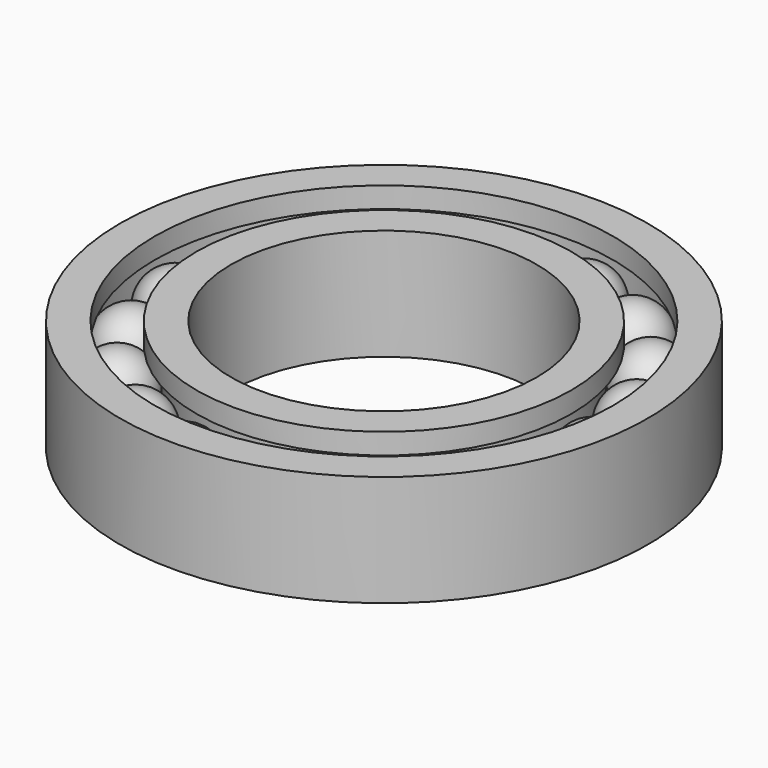
from build123d import *

# Parameters (mm, degrees)
F3_COUNT = 18


with BuildPart() as f1:
    # F0 (on Front) → F1 (revolve)
    with BuildSketch(Plane.XZ):
        with BuildLine():
            Line((-25, 0), (-35, 0))
            ThreePointArc((-35, 0), (-30, -5), (-25, 0))
        make_face()
    revolve(axis=Axis((-30, 0, 0), (1, 0, 0)))


with BuildPart() as f3_1:
    # F3: instance of F1
    add(f1.part.rotate(Axis((0, 0, 0), (0, 0, 1)), 1 * 360 / F3_COUNT))


with BuildPart() as f3_2:
    # F3: instance of F1
    add(f1.part.rotate(Axis((0, 0, 0), (0, 0, 1)), 2 * 360 / F3_COUNT))


with BuildPart() as f3_3:
    # F3: instance of F1
    add(f1.part.rotate(Axis((0, 0, 0), (0, 0, 1)), 3 * 360 / F3_COUNT))


with BuildPart() as f3_4:
    # F3: instance of F1
    add(f1.part.rotate(Axis((0, 0, 0), (0, 0, 1)), 4 * 360 / F3_COUNT))


with BuildPart() as f3_5:
    # F3: instance of F1
    add(f1.part.rotate(Axis((0, 0, 0), (0, 0, 1)), 5 * 360 / F3_COUNT))


with BuildPart() as f3_6:
    # F3: instance of F1
    add(f1.part.rotate(Axis((0, 0, 0), (0, 0, 1)), 6 * 360 / F3_COUNT))


with BuildPart() as f3_7:
    # F3: instance of F1
    add(f1.part.rotate(Axis((0, 0, 0), (0, 0, 1)), 7 * 360 / F3_COUNT))


with BuildPart() as f3_8:
    # F3: instance of F1
    add(f1.part.rotate(Axis((0, 0, 0), (0, 0, 1)), 8 * 360 / F3_COUNT))


with BuildPart() as f3_9:
    # F3: instance of F1
    add(f1.part.rotate(Axis((0, 0, 0), (0, 0, 1)), 9 * 360 / F3_COUNT))


with BuildPart() as f3_10:
    # F3: instance of F1
    add(f1.part.rotate(Axis((0, 0, 0), (0, 0, 1)), 10 * 360 / F3_COUNT))


with BuildPart() as f3_11:
    # F3: instance of F1
    add(f1.part.rotate(Axis((0, 0, 0), (0, 0, 1)), 11 * 360 / F3_COUNT))


with BuildPart() as f3_12:
    # F3: instance of F1
    add(f1.part.rotate(Axis((0, 0, 0), (0, 0, 1)), 12 * 360 / F3_COUNT))


with BuildPart() as f3_13:
    # F3: instance of F1
    add(f1.part.rotate(Axis((0, 0, 0), (0, 0, 1)), 13 * 360 / F3_COUNT))


with BuildPart() as f3_14:
    # F3: instance of F1
    add(f1.part.rotate(Axis((0, 0, 0), (0, 0, 1)), 14 * 360 / F3_COUNT))


with BuildPart() as f3_15:
    # F3: instance of F1
    add(f1.part.rotate(Axis((0, 0, 0), (0, 0, 1)), 15 * 360 / F3_COUNT))


with BuildPart() as f3_16:
    # F3: instance of F1
    add(f1.part.rotate(Axis((0, 0, 0), (0, 0, 1)), 16 * 360 / F3_COUNT))


with BuildPart() as f3_17:
    # F3: instance of F1
    add(f1.part.rotate(Axis((0, 0, 0), (0, 0, 1)), 17 * 360 / F3_COUNT))


with BuildPart() as f5:
    # F4 (on Front) → F5 (revolve)
    with BuildSketch(Plane.XZ):
        Polygon((-27, 5), (-25, 5), (-25, -5), (-27, -5), (-27, -8), (-22, -8), (-22, 8), (-27, 8), align=None)
    revolve(axis=Axis((0, 0, 0), (0, 0, 1)))


with BuildPart() as f5b:
    # F4 (on Front) → F5, piece 2 (revolve)
    with BuildSketch(Plane.XZ):
        Polygon((-35, -5), (-35, 5), (-33, 5), (-33, 8), (-38, 8), (-38, -8), (-33, -8), (-33, -5), align=None)
    revolve(axis=Axis((0, 0, 0), (0, 0, 1)))


solid = Compound([f1.part, f3_1.part, f3_2.part, f3_3.part, f3_4.part, f3_5.part, f3_6.part, f3_7.part, f3_8.part, f3_9.part, f3_10.part, f3_11.part, f3_12.part, f3_13.part, f3_14.part, f3_15.part, f3_16.part, f3_17.part, f5.part, f5b.part])
